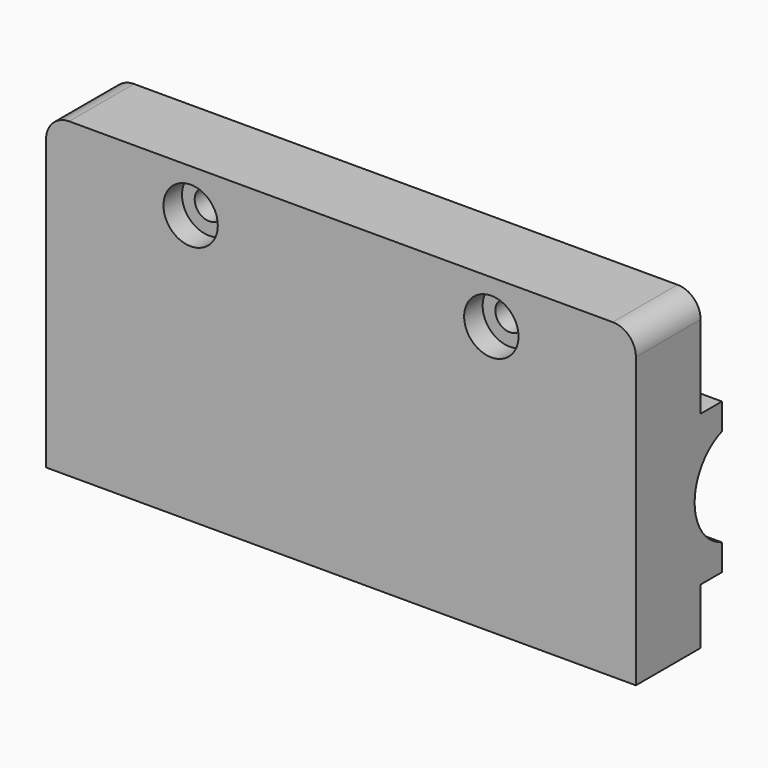
from build123d import *

# Parameters (mm, degrees)
F0_W      = 51
F0_H      = 27
F1_DEPTH  = 7
F2_W      = 2.5
F2_H      = 13
F3_DEPTH  = 2.3
F5_DEPTH  = 51
F7_R      = 7.7
F8_DEPTH  = 46.5
F9_R      = 1.25
F10_DEPTH = 25
F11_R     = 2.35
F11_R_2   = 1.25
F12_DEPTH = 2
F13_R     = 2


with BuildPart() as f1:
    # F0 (on Front) → F1 (new body)
    with BuildSketch(Plane.XZ):
        with Locations((25.5, 13.5)):
            Rectangle(F0_W, F0_H)
    extrude(amount=F1_DEPTH)

    # F2 (on face) → F3 (join)
    with BuildSketch(Plane(origin=(0, 0, 0), x_dir=(-1, 0, 0), z_dir=(0, 1, 0))):
        with Locations((-49.75, 11.331)):
            Rectangle(F2_W, F2_H)
        with Locations((-1.25, 11.331)):
            Rectangle(F2_W, F2_H)
    extrude(amount=F3_DEPTH)

    # F4 (on face) → F5 (cut, through all)
    with BuildSketch(Plane.YZ.offset(51)):
        with BuildLine():
            Line((2.3, 7.1063698387), (2.3, 15.5556301613))
            ThreePointArc((2.3, 15.5556301613), (-0.65, 11.331), (2.3, 7.1063698387))
        make_face()
        with BuildLine():
            ThreePointArc((2.3, 7.1063698387), (6.4263346056, 7.6414878371), (8.35, 11.331))
            ThreePointArc((8.35, 11.331), (6.4263346056, 15.0205121629), (2.3, 15.5556301613))
            Line((2.3, 15.5556301613), (2.3, 7.1063698387))
        make_face()
    extrude(amount=-F5_DEPTH, mode=Mode.SUBTRACT)

    # F7 (on offset) → F8 (cut, through all)
    with BuildSketch(Plane.YZ.offset(49)):
        with Locations((3.85, 11.331)):
            Circle(F7_R)
    extrude(amount=-F8_DEPTH, mode=Mode.SUBTRACT)

    # F9 (on face) → F10 (cut)
    with BuildSketch(Plane(origin=(0, 0, 0), x_dir=(-1, 0, 0), z_dir=(0, 1, 0))):
        with Locations((-38.5, 23.25)):
            Circle(F9_R)
        with Locations((-12.5, 23.25)):
            Circle(F9_R)
    extrude(amount=-F10_DEPTH, mode=Mode.SUBTRACT)

    # F11 (on face) → F12 (cut)
    with BuildSketch(Plane.XZ.offset(7)):
        with Locations((12.5, 23.25)):
            Circle(F11_R)
        with Locations((12.5, 23.25)):
            Circle(F11_R_2, mode=Mode.SUBTRACT)
        with Locations((38.5, 23.25)):
            Circle(F11_R)
        with Locations((38.5, 23.25)):
            Circle(F11_R_2, mode=Mode.SUBTRACT)
    extrude(amount=-F12_DEPTH, mode=Mode.SUBTRACT)

    # F13
    f13_edges = [f1.edges().sort_by_distance(p)[0] for p in [
        (0, -3.5, 27),
        (51, -3.5, 27),
    ]]
    fillet(f13_edges, radius=F13_R)


solid = f1.part
